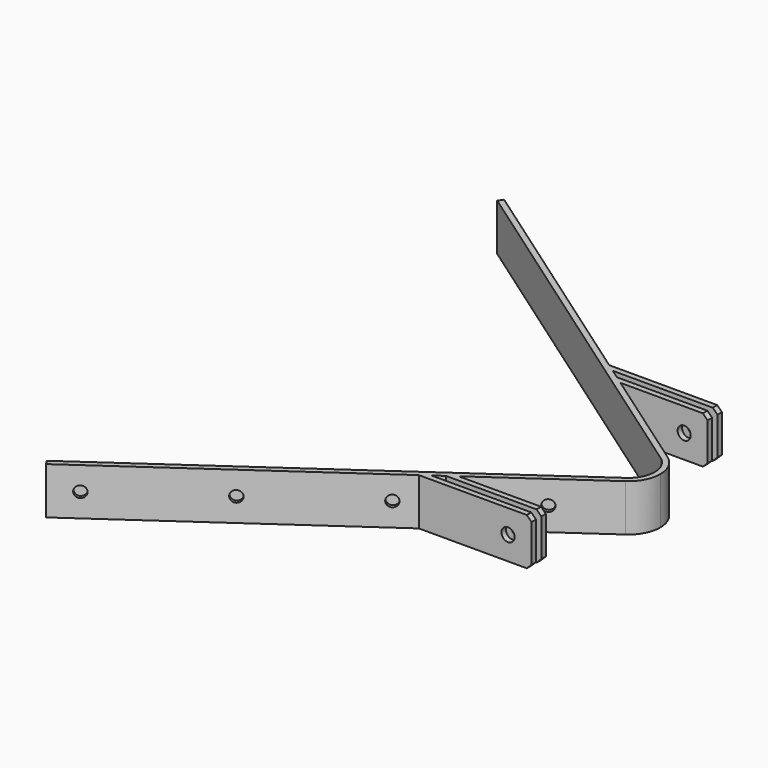
from build123d import *

# Parameters (mm, degrees)
PAD_DEPTH           = 50
PAD001_DEPTH        = 50
CHAMFER_SIZE        = 5
SKETCH015_R         = 6
POCKET005_DEPTH     = 10
LINEARPATTERN_COUNT = 4
LINEARPATTERN_PITCH = 130
SKETCH016_R         = 7
POCKET_DEPTH        = 20


with BuildPart() as part:
    # Sketch → Pad (new body)
    with BuildSketch(Plane.XY):
        with BuildLine():
            Line((-379.627892, 300), (16.06014, 22.936257))
            ThreePointArc((28, 0), (24.836303, 12.928961), (16.06014, 22.936257))
            Line((34, 0), (28, 0))
            ThreePointArc((34, 0), (30.158368, 15.699453), (19.501599, 27.85117))
            Line((19.501599, 27.85117), (-376.186433, 304.914912))
            Line((-376.186433, 304.914912), (-379.627892, 300))
        make_face()
    extrude(amount=PAD_DEPTH)

    # Sketch001 → Pad001 (join)
    with BuildSketch(Plane.XY):
        Polygon((-94.605757, 107.75), (-103.174645, 113.75), (-1.740569, 113.75), (-1.740569, 107.75), align=None)
        Polygon((-113.171681, 120.75), (-121.740569, 126.75), (-1.740569, 126.75), (-1.740569, 120.75), align=None)
    extrude(amount=PAD001_DEPTH)

    # Chamfer
    chamfer_edges = [part.edges().sort_by_distance(p)[0] for p in [
        (-1.740569, 123.75, 50),
        (-1.740569, 110.75, 50),
        (-1.740569, 110.75, 0),
        (-1.740569, 123.75, 0),
    ]]
    chamfer(chamfer_edges, length=CHAMFER_SIZE)

    # Sketch015 → Pocket005 (cut)
    with BuildSketch(Plane(origin=(22.943057, 32.766082, 0), x_dir=(-0.819152, 0.573576, 0), z_dir=(0.573576, 0.819152, 0))):
        with Locations((454.477006, 25)):
            Circle(SKETCH015_R)
    pocket005 = extrude(amount=-POCKET005_DEPTH, mode=Mode.SUBTRACT)

    # LinearPattern: Pocket005 ×4
    with Locations(*[Vector(0.819152, -0.573576, 0) * (i * LINEARPATTERN_PITCH) for i in range(1, LINEARPATTERN_COUNT)]):
        add(pocket005, mode=Mode.SUBTRACT)

    # Sketch016 (on Face9 of LinearPattern) → Pocket (cut)
    with BuildSketch(Plane(origin=(0, 126.75, 0), x_dir=(-1, 0, 0), z_dir=(0, 1, 0))):
        with Locations((26.740569, 25)):
            Circle(SKETCH016_R)
    extrude(amount=-POCKET_DEPTH, mode=Mode.SUBTRACT)

    # Mirrored: part across XZ


with BuildPart() as part_1:
    add(part.part)
    add(part.part.mirror(Plane.XZ))


solid = part_1.part
